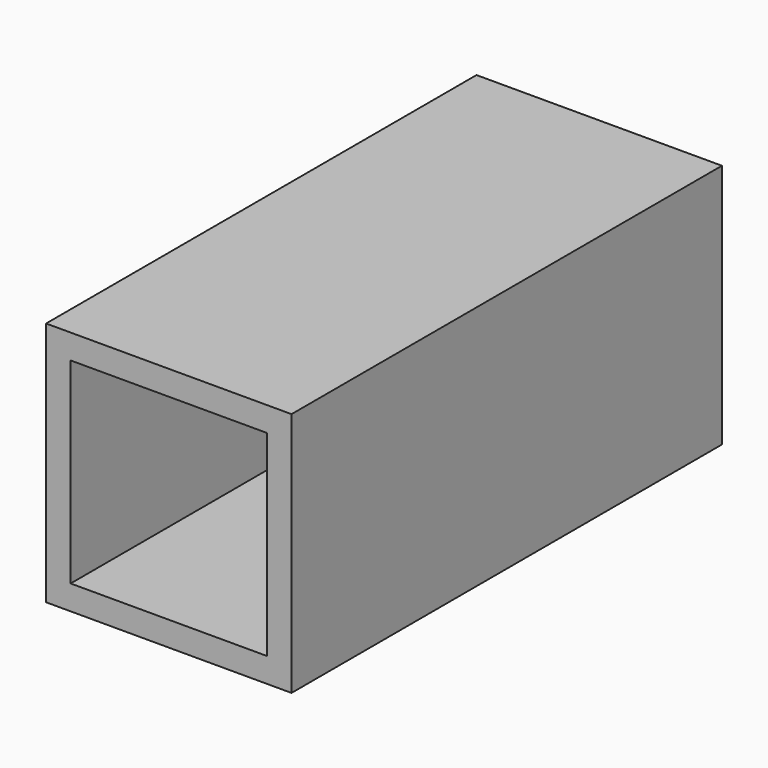
from build123d import *

# Parameters (mm, degrees)
F0_W     = 31.75
F0_H     = 31.75
F0_W_2   = 25.4
F0_H_2   = 25.4
F1_DEPTH = 34.798


with BuildPart() as f1:
    # F0 (on Front) → F1 (new body, symmetric)
    with BuildSketch(Plane.XZ):
        with Locations((0, -3.372475)):
            Rectangle(F0_W, F0_H)
        with Locations((0, -3.372475)):
            Rectangle(F0_W_2, F0_H_2, mode=Mode.SUBTRACT)
    extrude(amount=F1_DEPTH, both=True)


solid = f1.part
